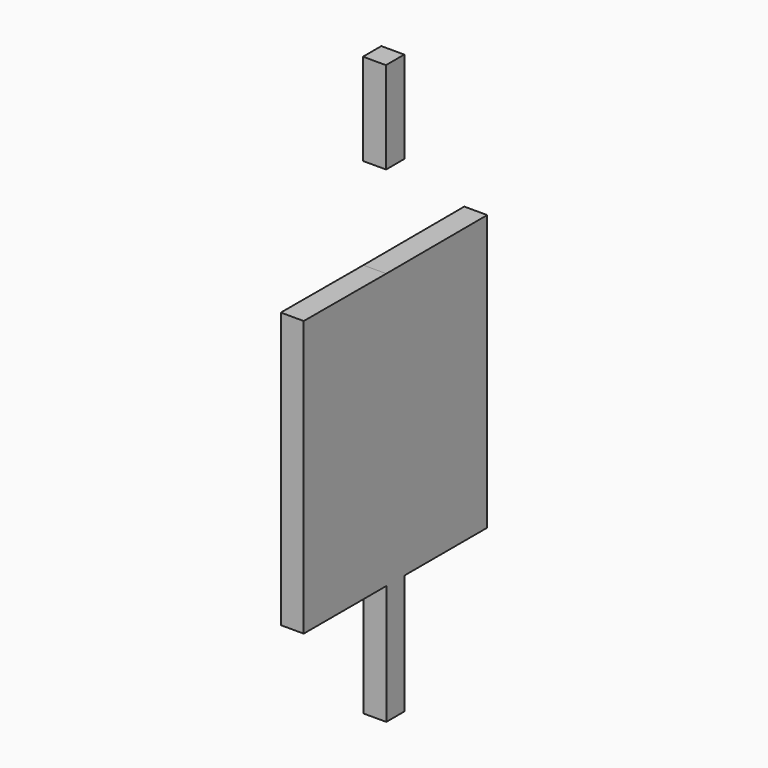
from build123d import *

# Parameters (mm, degrees)
F1_DEPTH = 5


with BuildPart() as f1:
    # F0 (on Right) → F1 (new body)
    with BuildSketch(Plane.YZ):
        Polygon((22.5, -0.056019), (0, 0), (0, -60), (12, -60), (12.401176, -60), (22.5, -60), (22.5, -86.0869), (27.5, -86.0869), (27.5, -81.065385), (27.5, -60), (50, -60), (50, 0.013014), align=None)
        Polygon((22.399447, 40), (22.449794, 19.943918), (27.449763, 19.956469), (27.399447, 40), align=None)
    extrude(amount=F1_DEPTH)


solid = f1.part
